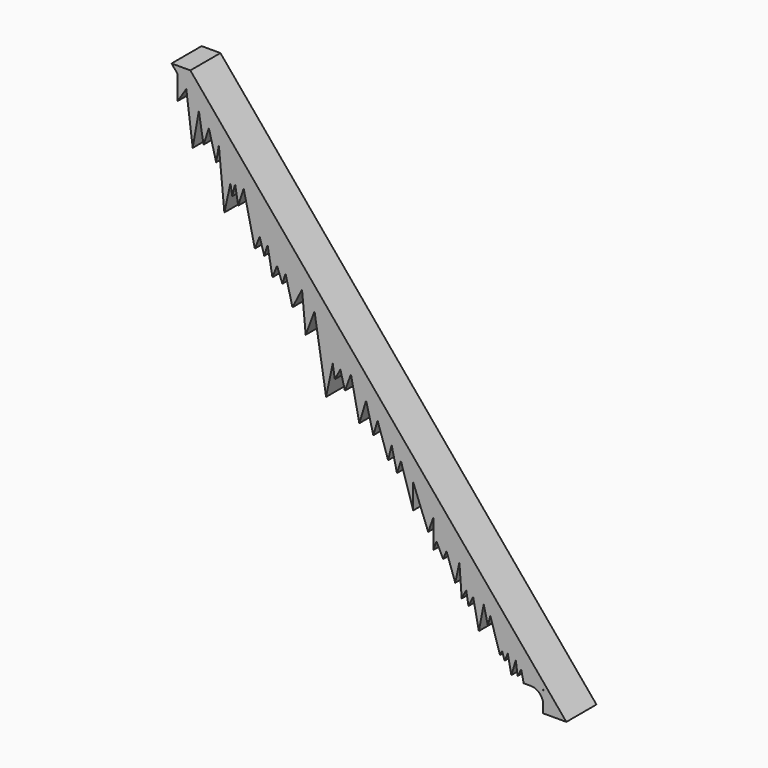
from build123d import *

# Parameters (mm, degrees)
F1_DEPTH = 1.27


with BuildPart() as f1:
    # F0 (on Front) → F1 (new body)
    with BuildSketch(Plane.XZ):
        Polygon((11.8264406887, -10.7807891433), (-0.8713469764, 4.4592108567), (-1.5063469764, 4.4592108567), (-1.3065064559, 4.2193604502), (-1.0086600117, 3.8618824447), (-0.5849018199, 3.3532840169), (-0.2455411144, 2.9459802181), (0.0911234886, 2.541912306), (0.573246897, 1.9632634155), (0.928909441, 1.5363940023), (1.6323374241, 0.6921333527), (2.2090147436, 0), (2.8997819306, -0.8290650473), (3.321811547, -1.3355888232), (4.0407046407, -2.1984108389), (4.5513520585, -2.8112945043), (5.0631082221, -3.4255088966), (5.4507959484, -3.8908152243), (5.9248896017, -4.4598267298), (6.2394758554, -4.8373960067), (6.6537557336, -5.3346184765), (7.3379562236, -6.1558021144), (7.575495537, -6.4408989541), (8.2138098271, -7.2070095585), (8.5938442703, -7.6631303464), (9.035790701, -8.1935584635), (9.2577511046, -8.4599573544), (9.7840033839, -9.0915701163), (10.1199439716, -9.4947690587), (10.2986362516, -9.7092371549), (10.5988050888, -10.0695025176), (11.0456617549, -10.0695025176), (11.0605312511, -10.0695025176), (11.0605312511, -10.099911131), (11.0605312511, -10.1845458375), (11.0605312511, -10.2025323822), (11.0605312511, -10.7807891433), (11.1914406887, -10.7807891433), (11.2468553707, -10.7807891433), align=None)
        Polygon((-1.0086600117, 3.8618824447), (-1.3065064559, 4.2193604502), (-1.3065064559, 3.4027206711), align=None)
        Polygon((-0.5849018199, 3.3532840169), (-1.0086600117, 3.8618824447), (-0.7916077157, 2.1798356902), align=None)
        with BuildLine():
            Line((11.0456617549, -10.7807891433), (11.0605312511, -10.7807891433))
            Line((11.0605312511, -10.7807891433), (11.0605312511, -10.2025323822))
            Line((11.0605312511, -10.2025323822), (11.0605312511, -10.1845458375))
            Line((11.0605312511, -10.1845458375), (11.0605312511, -10.099911131))
            Line((11.0605312511, -10.099911131), (11.0456617549, -10.099911131))
            Line((11.0456617549, -10.099911131), (11.0456617549, -10.4917703344))
            ThreePointArc((11.0456617549, -10.4917703344), (11.0469379879, -10.5246867127), (11.0456617549, -10.557603091))
            Line((11.0456617549, -10.557603091), (11.0456617549, -10.7807891433))
        make_face()
        Polygon((-0.2455411144, 2.9459802181), (-0.5849018199, 3.3532840169), (-0.4268874764, 2.3943767883), align=None)
        Polygon((0.0911234886, 2.541912306), (-0.2455411144, 2.9459802181), (0, 2.0082029514), align=None)
        with BuildLine():
            Line((11.0456617549, -10.4917703344), (11.0456617549, -10.557603091))
            ThreePointArc((11.0456617549, -10.557603091), (11.0469379879, -10.5246867127), (11.0456617549, -10.4917703344))
        make_face()
        Polygon((0.573246897, 1.9632634155), (0.0911234886, 2.541912306), (0.277421379, 0.6077454309), (0.4825687985, 1.5477624331), align=None)
        with BuildLine():
            ThreePointArc((10.6390425935, -10.099911131), (10.9168146182, -10.2185735503), (11.0456617549, -10.4917703344))
            Line((11.0456617549, -10.4917703344), (11.0456617549, -10.099911131))
            Line((11.0456617549, -10.099911131), (10.6390425935, -10.099911131))
        make_face()
        Polygon((0.928909441, 1.5363940023), (0.573246897, 1.9632634155), (0.6398208604, 1.5715317733), (0.7435218431, 0.9613389266), align=None)
        Polygon((0.6398208604, 1.5715317733), (0.573246897, 1.9632634155), (0.4825687985, 1.5477624331), (0.5450948966, 1.1798490652), align=None)
        Polygon((10.6390425935, -10.099911131), (11.0456617549, -10.099911131), (11.0456617549, -10.0695025176), (10.5988050888, -10.0695025176), (10.6241411856, -10.099911131), align=None)
        Polygon((1.6323374241, 0.6921333527), (0.928909441, 1.5363940023), (1.3060569763, -0.1315863774), (1.4691972002, 0.2802734877), align=None)
        Polygon((10.3788425163, -10.099911131), (10.6241411856, -10.099911131), (10.5988050888, -10.0695025176), (10.3788425163, -10.0695025176), align=None)
        Polygon((2.2090147436, 0), (1.6323374241, 0.6921333527), (1.7359070743, 0.1199951858), (1.900736941, -0.7905559032), (2.0548758423, -0.3952779516), align=None)
        Polygon((1.7359070743, 0.1199951858), (1.6323374241, 0.6921333527), (1.4691972002, 0.2802734877), (1.6247893218, -0.2425153507), align=None)
        Polygon((10.3788425163, -10.0695025176), (10.5988050888, -10.0695025176), (10.2986362516, -9.7092371549), align=None)
        Polygon((2.8997819306, -0.8290650473), (2.2090147436, 0), (2.3425826603, -0.5337401752), (2.5757791009, -1.4655980049), align=None)
        Polygon((2.3425826603, -0.5337401752), (2.2090147436, 0), (2.0548758423, -0.3952779516), (2.2364195902, -0.8732591523), align=None)
        Polygon((10.1796239614, -9.9518895149), (10.2986362516, -9.7092371549), (10.1199439716, -9.4947690587), align=None)
        Polygon((3.321811547, -1.3355888232), (2.8997819306, -0.8290650473), (3.0238747131, -2.1357438527), align=None)
        Polygon((9.9704461172, -9.9947974086), (10.1199439716, -9.4947690587), (9.7840033839, -9.0915701163), (9.8473794647, -9.3926533487), (9.8465451714, -9.3945556409), align=None)
        Polygon((4.0407046407, -2.1984108389), (3.321811547, -1.3355888232), (3.7131523713, -3.757573897), (3.9366614966, -2.6936607331), align=None)
        Polygon((9.8465451714, -9.3945556409), (9.7840033839, -9.0915701163), (9.6553254332, -9.3716533956), (9.7383982677, -9.6411439871), align=None)
        Polygon((9.6553254332, -9.3716533956), (9.7840033839, -9.0915701163), (9.2577511046, -8.4599573544), (9.5855835825, -9.5234550536), align=None)
        Polygon((9.8473794647, -9.3926533487), (9.7840033839, -9.0915701163), (9.8465451714, -9.3945556409), align=None)
        Polygon((4.5513520585, -2.8112945043), (4.0407046407, -2.1984108389), (4.194536978, -2.7820212599), (4.3483693153, -3.3656316809), align=None)
        Polygon((4.194536978, -2.7820212599), (4.0407046407, -2.1984108389), (3.9366614966, -2.6936607331), (4.0082986512, -3.1370188198), align=None)
        Polygon((9.1757364571, -8.7760863826), (9.2577511046, -8.4599573544), (9.035790701, -8.1935584635), align=None)
        Polygon((5.0631082221, -3.4255088966), (4.5513520585, -2.8112945043), (4.8349178396, -4.1765468195), align=None)
        Polygon((8.8703604415, -9.041281417), (9.035790701, -8.1935584635), (8.5938442703, -7.6631303464), (8.6790014305, -8.0875519305), align=None)
        Polygon((5.4507959484, -3.8908152243), (5.0631082221, -3.4255088966), (5.3079519421, -4.3792752549), align=None)
        Polygon((8.6790014305, -8.0875519305), (8.5938442703, -7.6631303464), (8.4427986396, -7.9624497125), (8.5217449814, -8.4112593904), align=None)
        Polygon((8.4427986396, -7.9624497125), (8.5938442703, -7.6631303464), (8.2138098271, -7.2070095585), (8.291753009, -8.2617690787), align=None)
        Polygon((5.9248896017, -4.4598267298), (5.4507959484, -3.8908152243), (5.8080158196, -4.9604312517), align=None)
        Polygon((8.0737182871, -7.8651150689), (8.2138098271, -7.2070095585), (7.575495537, -6.4408989541), (7.7781930442, -7.0203286494), align=None)
        Polygon((6.2394758554, -4.8373960067), (5.9248896017, -4.4598267298), (6.1053512618, -5.2442513406), align=None)
        Polygon((7.7781930442, -7.0203286494), (7.575495537, -6.4408989541), (7.4394400226, -6.8352251344), (7.6648117974, -7.2927363217), align=None)
        Polygon((7.4394400226, -6.8352251344), (7.575495537, -6.4408989541), (7.3379562236, -6.1558021144), (7.3379562236, -7.1293530054), align=None)
        Polygon((6.6537557336, -5.3346184765), (6.2394758554, -4.8373960067), (6.6537557336, -6.1768037267), align=None)
        Polygon((7.1595408954, -6.6498368979), (7.3379562236, -6.1558021144), (6.6537557336, -5.3346184765), align=None)
    extrude(amount=F1_DEPTH)


solid = f1.part
